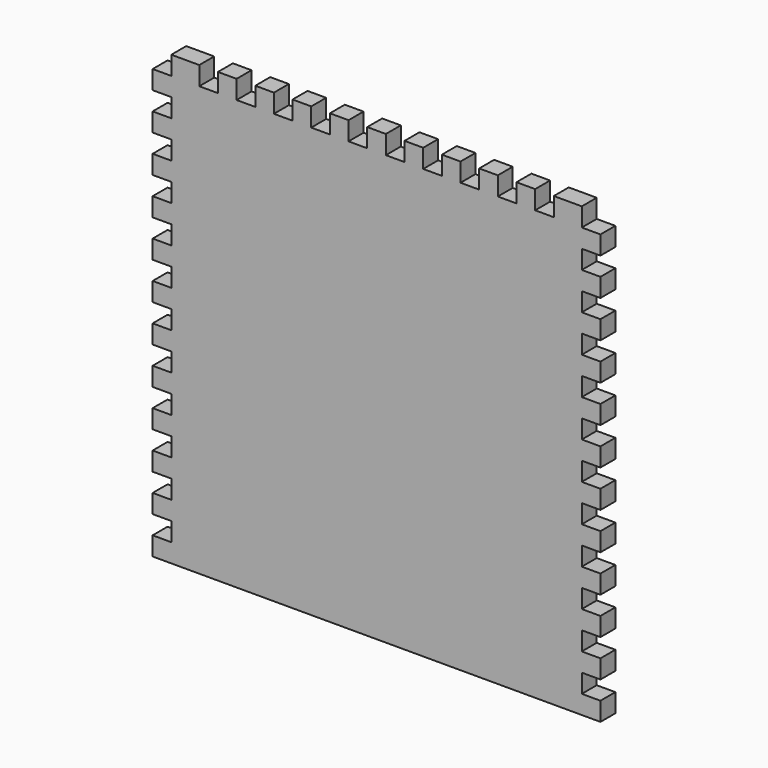
from build123d import *

# Parameters (mm, degrees)
F1_DEPTH = 12.7


with BuildPart() as f1:
    # F0 (on Front) → F1 (new body)
    with BuildSketch(Plane.XZ):
        Polygon((-139.7, -142.05924), (139.7, -142.05924), (152.4, -142.05924), (152.4, -129.35924), (139.7, -129.35924), (139.7, -116.65924), (152.4, -116.65924), (152.4, -103.95924), (139.7, -103.95924), (139.7, -91.25924), (152.4, -91.25924), (152.4, -78.55924), (139.7, -78.55924), (139.7, -65.85924), (152.4, -65.85924), (152.4, -53.15924), (139.7, -53.15924), (139.7, -40.45924), (152.4, -40.45924), (152.4, -27.75924), (139.7, -27.75924), (139.7, -15.05924), (152.4, -15.05924), (152.4, -2.35924), (139.7, -2.35924), (139.7, 10.34076), (152.4, 10.34076), (152.4, 23.04076), (139.7, 23.04076), (139.7, 35.74076), (152.4, 35.74076), (152.4, 48.44076), (139.7, 48.44076), (139.7, 61.14076), (152.4, 61.14076), (152.4, 73.84076), (139.7, 73.84076), (139.7, 86.54076), (152.4, 86.54076), (152.4, 99.24076), (139.7, 99.24076), (139.7, 111.94076), (152.4, 111.94076), (152.4, 124.64076), (139.7, 124.64076), (139.7, 137.34076), (152.4, 137.34076), (152.4, 150.04076), (139.7, 150.04076), (139.7, 162.74076), (120.65, 162.74076), (120.65, 150.04076), (107.95, 150.04076), (107.95, 162.74076), (95.25, 162.74076), (95.25, 150.04076), (82.55, 150.04076), (82.55, 162.74076), (69.85, 162.74076), (69.85, 150.04076), (57.15, 150.04076), (57.15, 162.74076), (44.45, 162.74076), (44.45, 150.04076), (31.75, 150.04076), (31.75, 162.74076), (19.05, 162.74076), (19.05, 150.04076), (6.35, 150.04076), (6.35, 162.74076), (-6.35, 162.74076), (-6.35, 150.04076), (-19.05, 150.04076), (-19.05, 162.74076), (-31.75, 162.74076), (-31.75, 150.04076), (-44.45, 150.04076), (-44.45, 162.74076), (-57.15, 162.74076), (-57.15, 150.04076), (-69.85, 150.04076), (-69.85, 162.74076), (-82.55, 162.74076), (-82.55, 150.04076), (-95.25, 150.04076), (-95.25, 162.74076), (-107.95, 162.74076), (-107.95, 150.04076), (-120.65, 150.04076), (-120.65, 162.74076), (-139.7, 162.74076), (-139.7, 150.04076), (-152.4, 150.04076), (-152.4, 137.34076), (-139.7, 137.34076), (-139.7, 124.64076), (-152.4, 124.64076), (-152.4, 111.94076), (-139.7, 111.94076), (-139.7, 99.24076), (-152.4, 99.24076), (-152.4, 86.54076), (-139.7, 86.54076), (-139.7, 73.84076), (-152.4, 73.84076), (-152.4, 61.14076), (-139.7, 61.14076), (-139.7, 48.44076), (-152.4, 48.44076), (-152.4, 35.74076), (-139.7, 35.74076), (-139.7, 23.04076), (-152.4, 23.04076), (-152.4, 10.34076), (-139.7, 10.34076), (-139.7, -2.35924), (-152.4, -2.35924), (-152.4, -15.05924), (-139.7, -15.05924), (-139.7, -27.75924), (-152.4, -27.75924), (-152.4, -40.45924), (-139.7, -40.45924), (-139.7, -53.15924), (-152.4, -53.15924), (-152.4, -65.85924), (-139.7, -65.85924), (-139.7, -78.55924), (-152.4, -78.55924), (-152.4, -91.25924), (-139.7, -91.25924), (-139.7, -103.95924), (-152.4, -103.95924), (-152.4, -116.65924), (-139.7, -116.65924), (-139.7, -129.35924), (-152.4, -129.35924), (-152.4, -142.05924), align=None)
    extrude(amount=F1_DEPTH)


solid = f1.part
